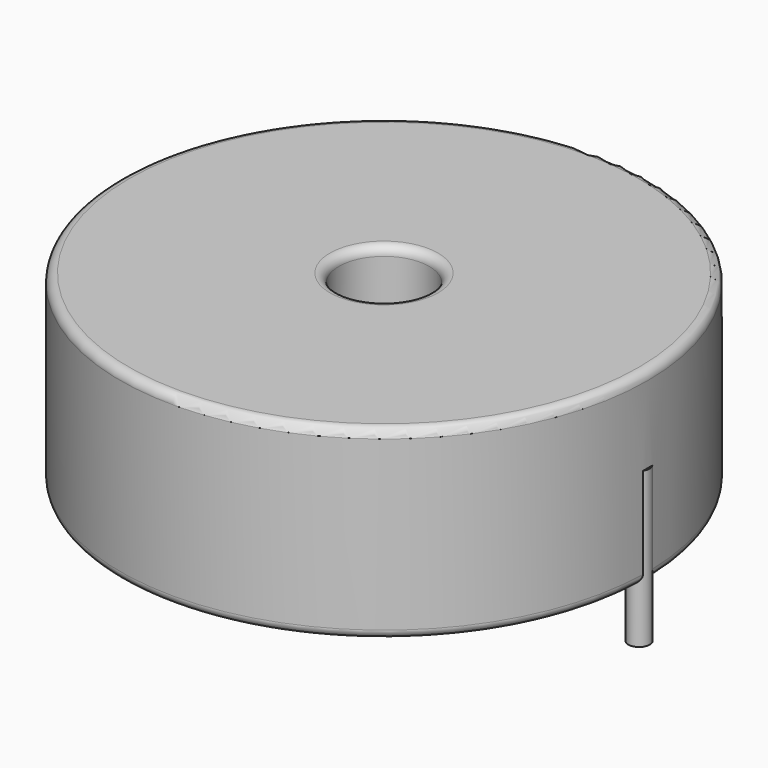
from build123d import *

# Parameters (mm, degrees)
SKETCH_R          = 14.9
SKETCH_R_2        = 2.55
PAD_DEPTH         = 10.5
FILLET_R          = 0.5
SKETCH001_R       = 0.6
PAD001_DEPTH      = 5.25
PAD001_DEPTH_BACK = 3.5


with BuildPart() as fillet_body:
    # Sketch → Pad (new body)
    with BuildSketch(Plane.XY.offset(0.1)):
        with Locations((14.4, 0)):
            Circle(SKETCH_R)
        with Locations((14.4, 0)):
            Circle(SKETCH_R_2, mode=Mode.SUBTRACT)
    extrude(amount=PAD_DEPTH)

    # Fillet
    fillet_edges = [fillet_body.edges().sort_by_distance(p)[0] for p in [
        (11.85, 0, 10.6),
        (-0.5, 0, 10.6),
        (-0.5, 0, 0.1),
    ]]
    fillet(fillet_edges, radius=FILLET_R)


with BuildPart() as obj1:
    # Sketch001 → Pad001 (new body, two sides)
    with BuildSketch(Plane.XY.offset(0.5)) as pad001_sk:
        Circle(SKETCH001_R)
        with Locations((28.8, 0)):
            Circle(SKETCH001_R)
    extrude(amount=PAD001_DEPTH)
    extrude(pad001_sk.sketch, amount=-PAD001_DEPTH_BACK)

    # obj1: union Fillet body
    add(fillet_body.part)


solid = obj1.part
